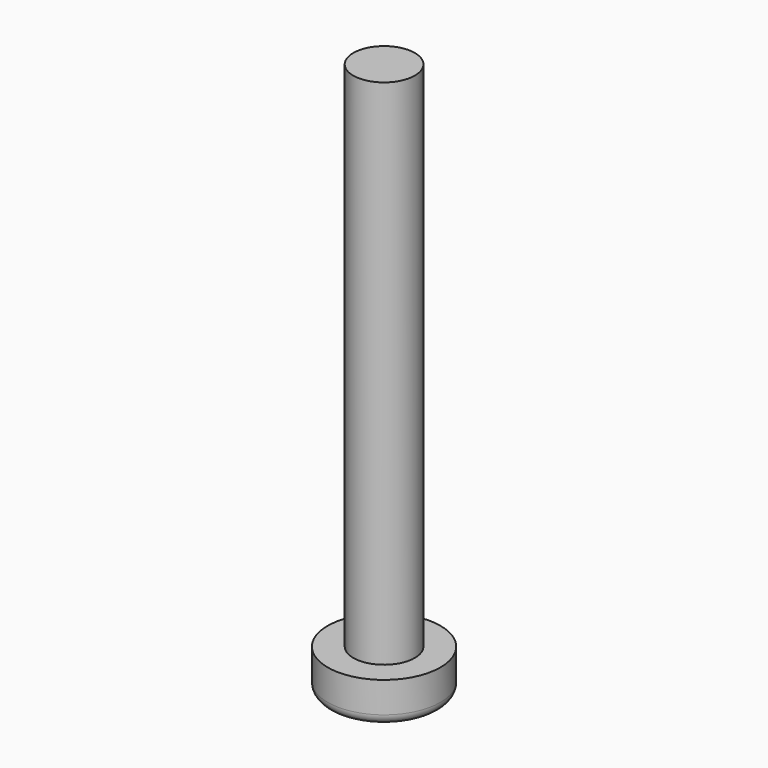
from build123d import *

# Parameters (mm, degrees)
SKETCH_R     = 2.75
PAD_DEPTH    = 2
SKETCH001_R  = 1.5
PAD001_DEPTH = 25
FILLET_R     = 0.5


with BuildPart() as part:
    # Sketch → Pad (new body)
    with BuildSketch(Plane.XY):
        Circle(SKETCH_R)
    extrude(amount=PAD_DEPTH)

    # Sketch001 → Pad001 (new body)
    with BuildSketch(Plane.XY.offset(2)):
        Circle(SKETCH001_R)
    extrude(amount=PAD001_DEPTH)

    # Fillet
    fillet_edges = [part.edges().sort_by_distance(p)[0] for p in [
        (-2.75, 0, 0),
    ]]
    fillet(fillet_edges, radius=FILLET_R)


solid = part.part
